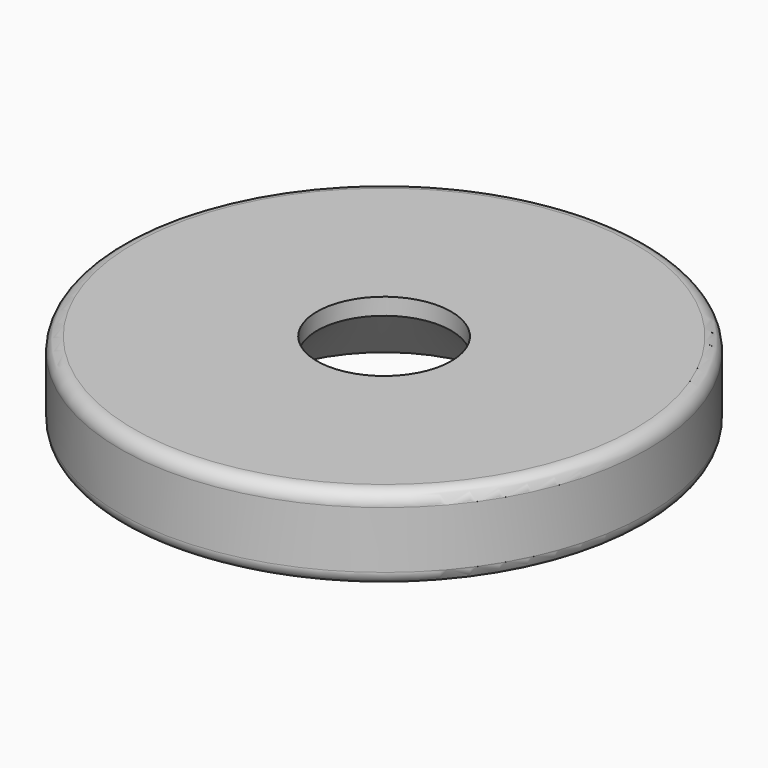
from build123d import *

# Parameters (mm, degrees)
F0_R     = 9.9949
F0_R_2   = 2.54
F1_DEPTH = 3.175
F2_SIZE  = 2.54
F3_R     = 0.508


with BuildPart() as f1:
    # F0 (on Top) → F1 (new body)
    with BuildSketch(Plane.XY):
        Circle(F0_R)
        Circle(F0_R_2, mode=Mode.SUBTRACT)
    extrude(amount=F1_DEPTH)

    # F2
    f2_edges = [f1.edges().sort_by_distance(p)[0] for p in [
        (-2.54, 0, 0),
    ]]
    chamfer(f2_edges, length=F2_SIZE)

    # F3
    f3_edges = [f1.edges().sort_by_distance(p)[0] for p in [
        (-9.9949, 0, 3.175),
        (-9.9949, 0, 0),
    ]]
    fillet(f3_edges, radius=F3_R)


solid = f1.part
